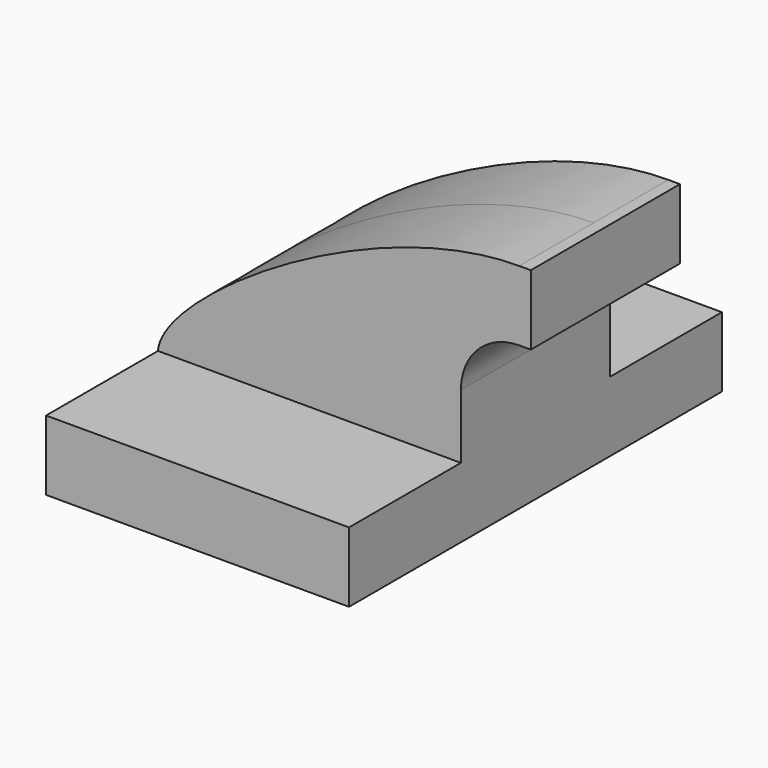
from build123d import *

# Parameters (mm, degrees)
F1_DEPTH = 63.5
F2_DEPTH = 25.4


with BuildPart() as f1:
    # F0 (on Front) → F1 (new body, symmetric)
    with BuildSketch(Plane.XZ):
        Polygon((-41.275, -9.525), (41.275, -9.525), (41.275, 9.525), (22.225, 9.525), (-41.275, 9.525), align=None)
    extrude(amount=F1_DEPTH, both=True)

    # F0 (on Front) → F2 (join, symmetric)
    with BuildSketch(Plane.XZ):
        with BuildLine():
            add(Edge.make_bspline(
                [(-41.275, 9.525), (-40.101912, 24.682952), (16.535287, 61.9252), (57.15, 61.9252)],
                knots=[0, 0, 0, 0, 111.504536, 111.504536, 111.504536, 111.504536], degree=3))
            Line((-41.275, 9.525), (22.225, 9.525))
            Line((22.225, 9.525), (22.225, 27.0002))
            ThreePointArc((22.225, 27.0002), (32.454296, 51.695904), (57.15, 61.9252))
        make_face()
        with BuildLine():
            Line((22.225, 9.525), (41.275, 9.525))
            Line((41.275, 9.525), (41.275, 27.0002))
            ThreePointArc((41.275, 27.0002), (45.92468, 38.22552), (57.15, 42.8752))
            Line((57.15, 42.8752), (60.325, 42.8752))
            Line((60.325, 42.8752), (60.325, 61.9252))
            Line((60.325, 61.9252), (57.15, 61.9252))
            ThreePointArc((57.15, 61.9252), (32.454296, 51.695904), (22.225, 27.0002))
            Line((22.225, 27.0002), (22.225, 9.525))
        make_face()
    extrude(amount=F2_DEPTH, both=True)


solid = f1.part
